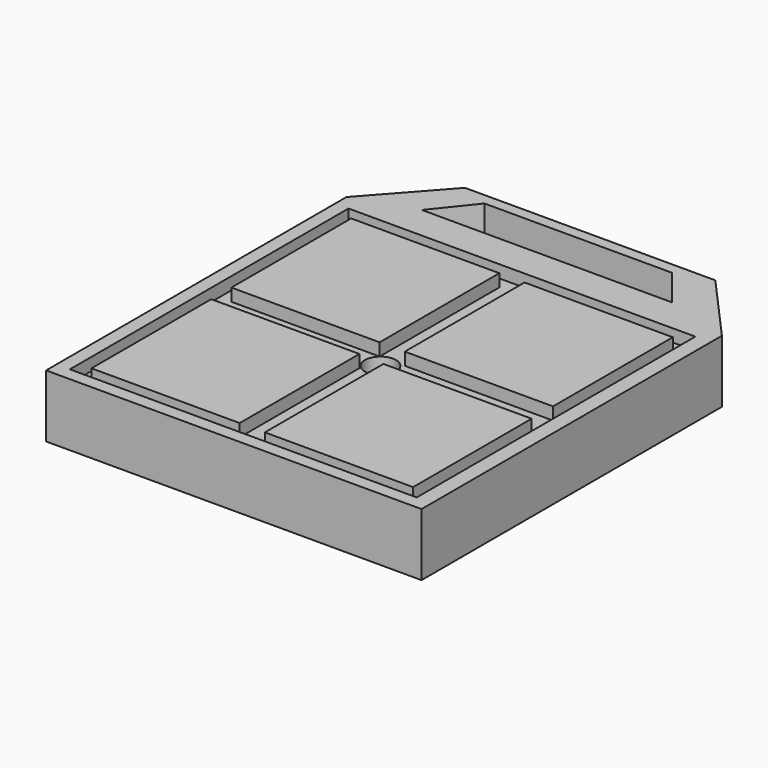
from build123d import *

# Parameters (mm, degrees)
F0_W      = 76.2
F0_H      = 76.2
F0_W_2    = 70.384737
F0_H_2    = 70.685525
F1_DEPTH  = 12.7
F2_DEPTH  = 10.16
F3_W      = 30.078948
F3_H      = 30.379737
F3_H_2    = 30.379739
F3_W_2    = 30.078947
F3_H_3    = 30.078949
F4_DEPTH  = 2.54
F6_D      = 6.35
F9_DEPTH  = 12.7
F10_DEPTH = 12.701


with BuildPart() as f1:
    # F0 (on Top) → F1 (new body)
    with BuildSketch(Plane.XY):
        with Locations((-70.500866, -0.037277)):
            Rectangle(F0_W, F0_H)
        with Locations((-70.691103, -0.150396)):
            Rectangle(F0_W_2, F0_H_2, mode=Mode.SUBTRACT)
    extrude(amount=F1_DEPTH)

    # F7 (on face) → F9 (join)
    with BuildSketch(Plane.XY.offset(12.7)):
        Polygon((-95.900866, 52.261754), (-108.600866, 38.062723), (-32.400866, 38.062723), (-45.100866, 52.261754), align=None)
    extrude(amount=-F9_DEPTH)

    # F8 (on face) → F10 (cut, through all)
    with BuildSketch(Plane.XY.offset(12.7)):
        Polygon((-90.144515, 49.989733), (-96.494515, 42.058586), (-45.694515, 42.058586), (-52.044515, 49.989733), align=None)
    extrude(amount=-F10_DEPTH, mode=Mode.SUBTRACT)


with BuildPart() as f2:
    # F0 (on Top) → F2 (new body)
    with BuildSketch(Plane.XY):
        with Locations((-70.691103, -0.150396)):
            Rectangle(F0_W_2, F0_H_2)
    extrude(amount=F2_DEPTH)

    # F3 (on face) → F4 (join)
    with BuildSketch(Plane.XY.offset(10.16)):
        with Locations((-88.389911, 17.596184)):
            Rectangle(F3_W, F3_H)
        with Locations((-88.389911, -17.896974)):
            Rectangle(F3_W, F3_H_2)
        with Locations((-53.197541, -18.047369)):
            Rectangle(F3_W_2, F3_H_3)
        with Locations((-53.197541, 17.596184)):
            Rectangle(F3_W_2, F3_H)
    extrude(amount=F4_DEPTH)

    # F6 (through all)
    with Locations(Plane.XY.offset(10.16)):
        with Locations((-71.24491, 0)):
            Hole(F6_D / 2)


solid = Compound([f1.part, f2.part])
